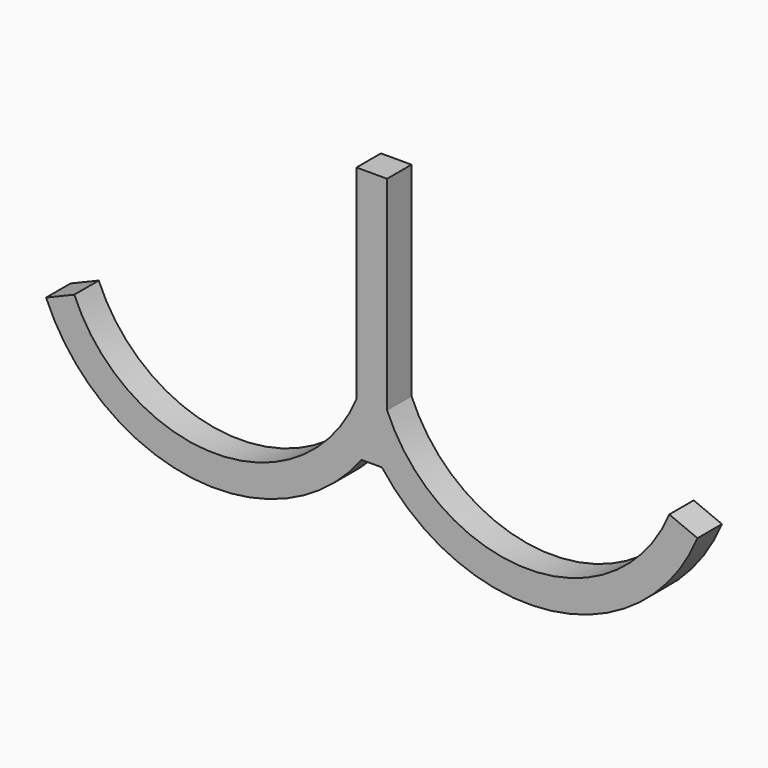
from build123d import *

# Parameters (mm, degrees)
F1_DEPTH = 3


with BuildPart() as f1:
    # F0 (on Front) → F1 (new body, symmetric)
    with BuildSketch(Plane.XZ):
        with BuildLine():
            Line((3, 34.668413), (-3, 34.668413))
            Line((-3, 34.668413), (-3, -5.331587))
            ThreePointArc((-3, -5.331587), (-30.701038, -23.814102), (-58.402077, -5.331587))
            Line((-58.402077, -5.331587), (-63.942284, -7.635084))
            ThreePointArc((-63.942284, -7.635084), (-35.261383, -29.52409), (-2, -15.545424))
            Line((-2, -15.545424), (2, -15.545424))
            ThreePointArc((2, -15.545424), (35.261383, -29.52409), (63.942284, -7.635084))
            Line((63.942284, -7.635084), (58.402077, -5.331587))
            ThreePointArc((58.402077, -5.331587), (30.701038, -23.814102), (3, -5.331587))
            Line((3, -5.331587), (3, 34.668413))
        make_face()
    extrude(amount=F1_DEPTH, both=True)


solid = f1.part
